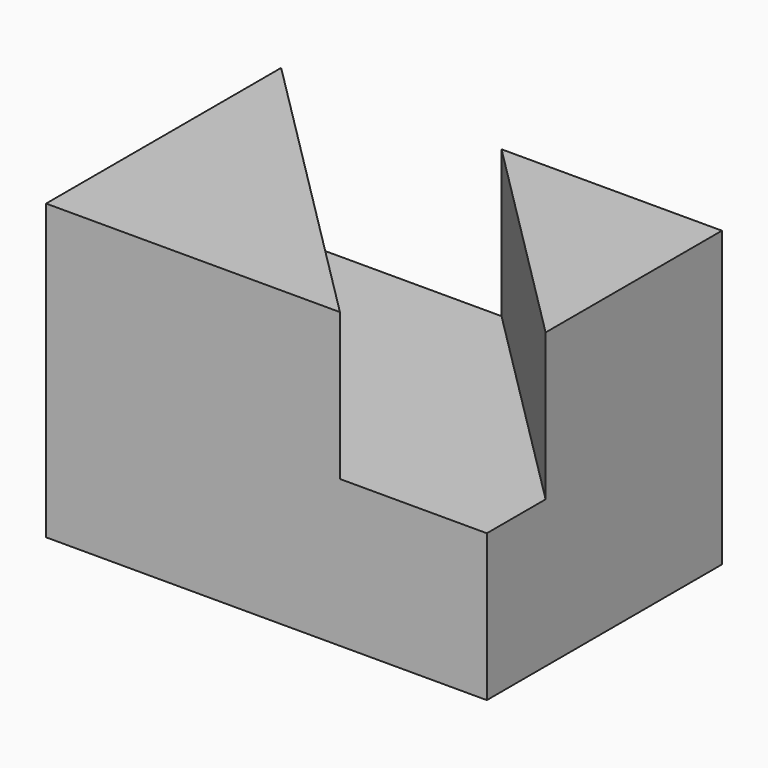
from build123d import *

# Parameters (mm, degrees)
F0_W     = 38.1
F0_H     = 25.4
F1_DEPTH = 25.4
F3_DEPTH = 12.7


with BuildPart() as f1:
    # F0 (on Front) → F1 (new body)
    with BuildSketch(Plane.XZ):
        with Locations((19.05, -12.7)):
            Rectangle(F0_W, F0_H)
    extrude(amount=-F1_DEPTH)

    # F2 (on Top) → F3 (cut)
    with BuildSketch(Plane.XY):
        Polygon((0, 25.4), (25.4, 0), (38.1, 0), (38.1, 6.35), (19.05, 25.4), align=None)
    extrude(amount=-F3_DEPTH, mode=Mode.SUBTRACT)


solid = f1.part
